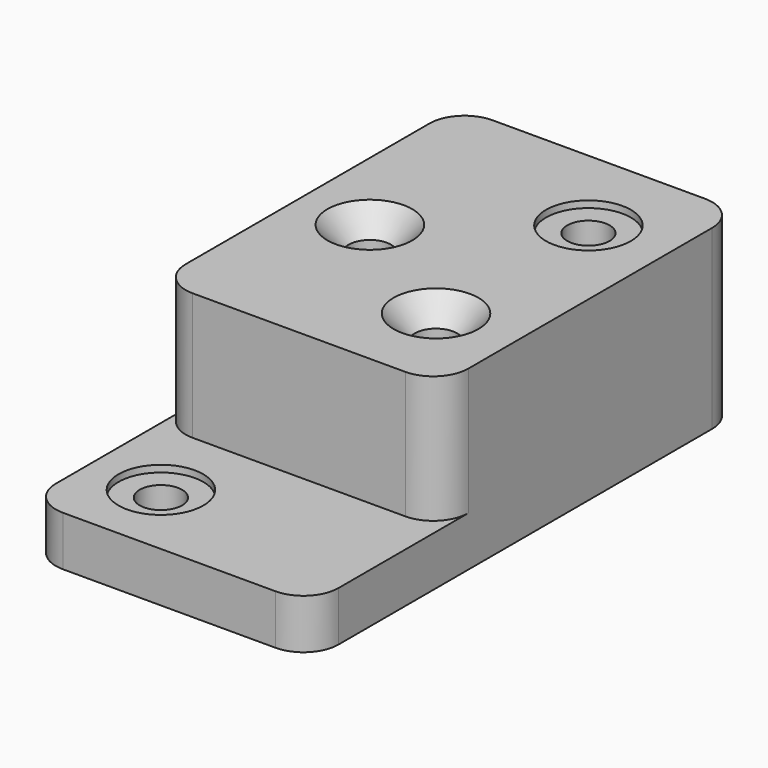
from build123d import *

# Parameters (mm, degrees)
F0_W           = 127
F0_H           = 241.3
F1_DEPTH       = 22.352
F2_W           = 127
F2_H           = 168.402
F3_DEPTH       = 57.15
F5_D           = 19.05
F5_CSINK_D     = 38.1
F5_CSINK_ANGLE = 82
F6_D           = 19.05
F6_CBORE_D     = 38.1
F6_CBORE_DEPTH = 3.048
F8_D           = 19.05
F8_CBORE_D     = 38.1
F8_CBORE_DEPTH = 3.048
F9_R           = 15.748


with BuildPart() as f1:
    # F0 (on Top) → F1 (new body)
    with BuildSketch(Plane.XY):
        Rectangle(F0_W, F0_H)
    extrude(amount=F1_DEPTH)

    # F2 (on face) → F3 (join)
    with BuildSketch(Plane.XY.offset(22.352)):
        with Locations((0, 36.449)):
            Rectangle(F2_W, F2_H)
    extrude(amount=F3_DEPTH)

    # F5 (through all)
    with Locations(Plane.XY.offset(79.502)):
        with Locations((-31.75, 31.75), (28.448, -6.35)):
            CounterSinkHole(F5_D / 2, F5_CSINK_D / 2, counter_sink_angle=F5_CSINK_ANGLE)

    # F6 (through all)
    with Locations(Plane.XY.offset(79.502)):
        with Locations((28.448, 79.248)):
            CounterBoreHole(F6_D / 2, F6_CBORE_D / 2, F6_CBORE_DEPTH)

    # F8 (through all)
    with Locations(Plane.XY.offset(22.352)):
        with Locations((-31.75, -85.598)):
            CounterBoreHole(F8_D / 2, F8_CBORE_D / 2, F8_CBORE_DEPTH)

    # F9
    f9_edges = [f1.edges().sort_by_distance(p)[0] for p in [
        (63.5, -47.752, 50.927),
        (-63.5, -47.752, 50.927),
        (-63.5, -120.65, 11.176),
        (63.5, -120.65, 11.176),
        (63.5, 120.65, 39.751),
        (-63.5, 120.65, 39.751),
    ]]
    fillet(f9_edges, radius=F9_R)


solid = f1.part
